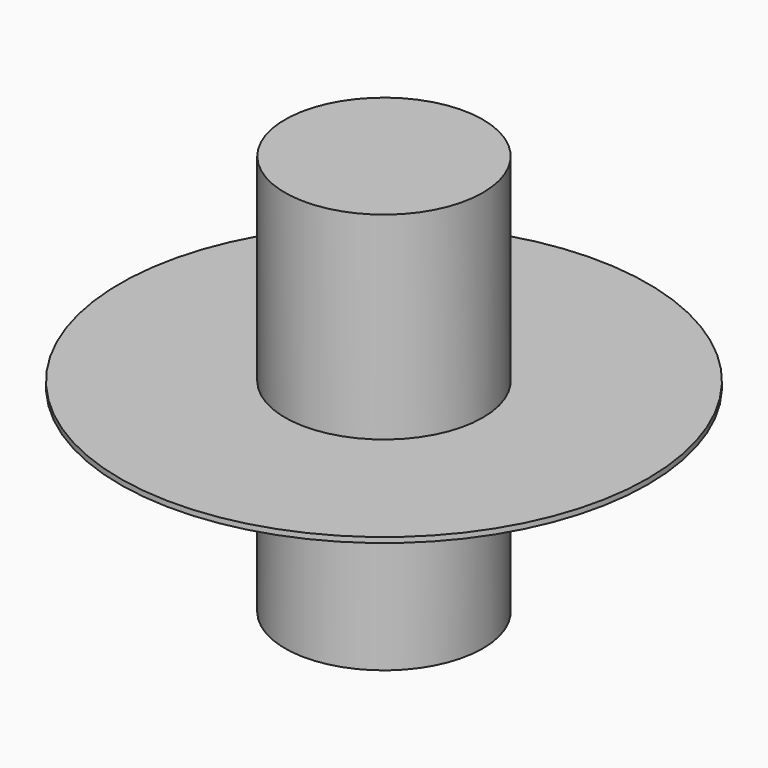
from build123d import *

# Parameters (mm, degrees)
F0_R     = 200
F1_DEPTH = 2
F2_R     = 75
F3_DEPTH = 150


with BuildPart() as f1:
    # F0 (on Top) → F1 (new body)
    with BuildSketch(Plane.XY):
        Circle(F0_R)
    extrude(amount=F1_DEPTH)

    # F2 (on face) → F3 (join)
    with BuildSketch(Plane.XY.offset(2)):
        Circle(F2_R)
    extrude(amount=F3_DEPTH)

    # F4: F1 across face


with BuildPart() as f1_1:
    add(f1.part)
    add(f1.part.mirror(Plane(origin=(0, 0, 0), x_dir=(1, 0, 0), z_dir=(0, 0, -1))))


solid = f1_1.part
